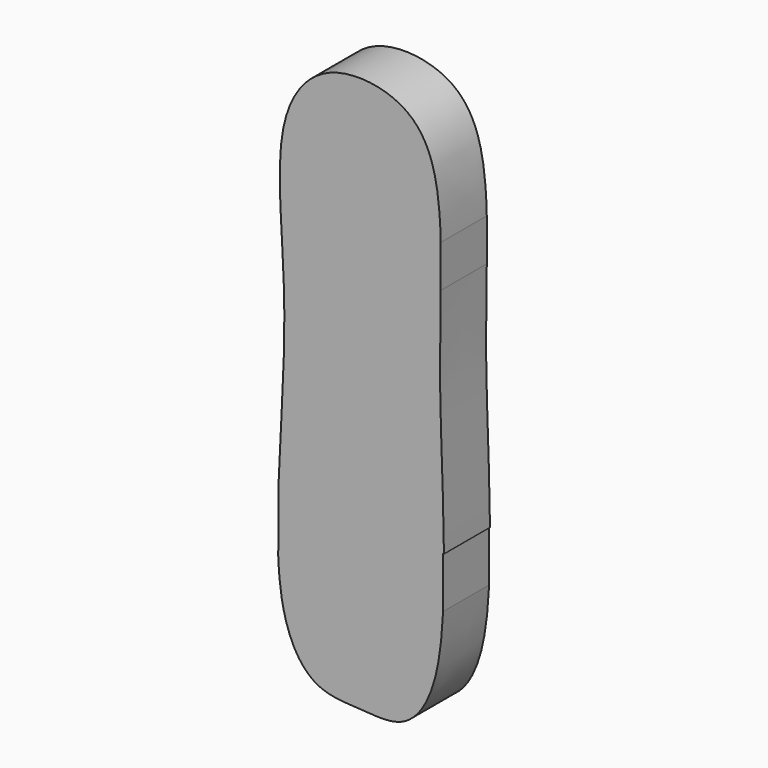
from build123d import *

# Parameters (mm, degrees)
F1_DEPTH = 4


with BuildPart() as f1:
    # F0 (on Front) → F1 (new body)
    with BuildSketch(Plane.XZ):
        with BuildLine():
            add(Edge.make_bspline(
                [(-10.8941382348, 9.4249713676), (-10.9593211957, 8.1055708545), (-11.3477292709, 4.2913613907), (-13.2729236116, 1.1880596782), (-16.7178638936, 1.6640416375), (-20.1538820528, 1.6359164321), (-21.7196768364, 4.2894851093), (-22.1134480089, 6.6247042269)],
                knots=[0.7013699909, 0.7013699909, 0.7013699909, 0.7013699909, 0.7350663126, 0.8081776347, 0.8660857742, 0.9244394022, 1, 1, 1, 1], degree=3))
            Line((-10.8941382348, 9.4249713676), (-10.8941382348, 12.969491072))
            Line((-10.8941382348, 12.969491072), (-10.8346360621, 12.969491072))
            add(Edge.make_bspline(
                [(-11.0579359967, 29.0188053732), (-11.0813696856, 27.3231476575), (-11.1960917274, 22.442331008), (-10.8611217361, 16.3784642244), (-10.8346360621, 12.969491072)],
                knots=[0.5465043835, 0.5465043835, 0.5465043835, 0.5465043835, 0.5948390255, 0.6729776906, 0.6729776906, 0.6729776906, 0.6729776906], degree=3))
            Line((-11.0579359967, 29.0188053732), (-11.0579359967, 31.9577415271))
            add(Edge.make_bspline(
                [(-22.2400677926, 32.8968483147), (-22.219678178, 33.9271365284), (-21.9328643092, 37.0325836444), (-19.2953175937, 40.7363202728), (-12.82271139, 39.9594736957), (-11.2841805411, 36.1486290506), (-11.0833476746, 33.0599837515), (-11.0579359967, 31.9577415271)],
                knots=[0.2207874367, 0.2207874367, 0.2207874367, 0.2207874367, 0.2542754597, 0.3305362265, 0.4072855601, 0.4809503604, 0.5167544975, 0.5167544975, 0.5167544975, 0.5167544975], degree=3))
            Line((-22.2400677926, 32.8968483147), (-22.2400677926, 31.8454611102))
            add(Edge.make_bspline(
                [(-22.3392057409, 13.3318323754), (-22.2160715083, 16.7804599134), (-21.6434749076, 23.9259584444), (-22.2012087974, 29.5712444241), (-22.2400677926, 31.8454611102)],
                knots=[0.059138091, 0.059138091, 0.059138091, 0.059138091, 0.1394794972, 0.2096900213, 0.2096900213, 0.2096900213, 0.2096900213], degree=3))
            Line((-22.3392057409, 13.3318323754), (-22.3392057409, 9.4249713676))
            Line((-22.3392057409, 9.4249713676), (-22.3673229857, 9.4249713676))
            add(Edge.make_bspline(
                [(-22.1134480089, 6.6247042269), (-22.2544308378, 7.4607882785), (-22.3326375011, 8.4042871625), (-22.3673229857, 9.4249713676)],
                knots=[0, 0, 0, 0, 0.0270531404, 0.0270531404, 0.0270531404, 0.0270531404], degree=3))
        make_face()
    extrude(amount=F1_DEPTH)


solid = f1.part
